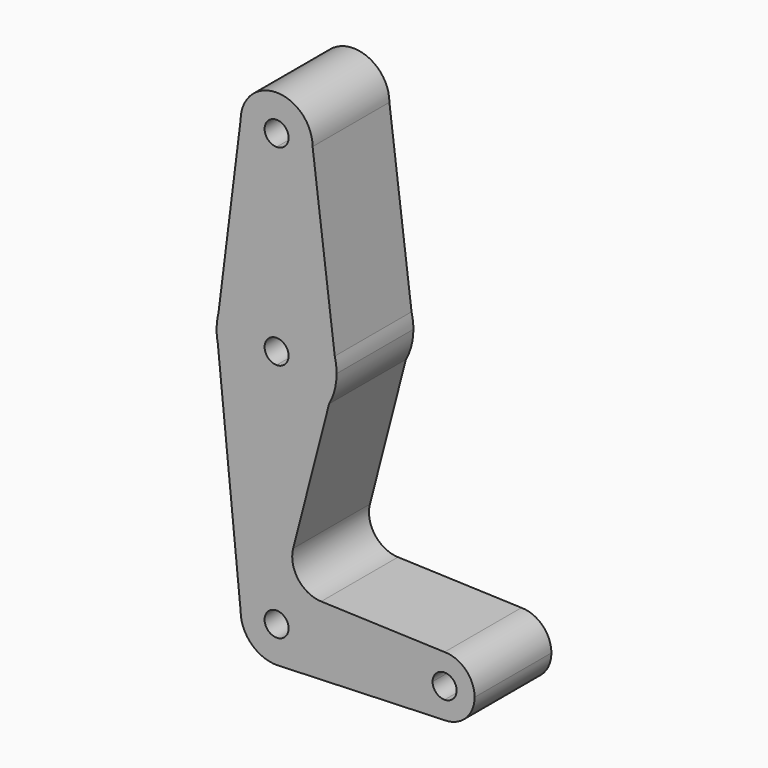
from build123d import *

# Parameters (mm, degrees)
F1_DEPTH = 25.4


with BuildPart() as f1:
    # F0 (on Front) → F1 (new body)
    with BuildSketch(Plane.XZ):
        with BuildLine():
            ThreePointArc((25.6770636201, 456.7115720676), (28.4668715293, 449.9763799768), (35.2020636201, 447.1865720676))
            ThreePointArc((35.2020636201, 447.1865720676), (41.9372557109, 449.9763799768), (44.7270636201, 456.7115720676))
            ThreePointArc((44.7270636201, 456.7115720676), (35.2020636201, 466.2365720676), (25.6770636201, 456.7115720676))
        make_face()
        with BuildLine():
            ThreePointArc((38.3770636201, 456.7115720676), (37.4471276504, 454.4665080374), (35.2020636201, 453.5365720676))
            ThreePointArc((35.2020636201, 453.5365720676), (32.9569995898, 458.9566360979), (38.3770636201, 456.7115720676))
        make_face(mode=Mode.SUBTRACT)
        with BuildLine():
            ThreePointArc((44.7270636201, 456.7115720676), (41.9372557109, 449.9763799768), (35.2020636201, 447.1865720676))
            Line((35.2020636201, 447.1865720676), (35.2020636201, 421.7865720676))
            ThreePointArc((35.2020636201, 421.7865720676), (44.9483708596, 418.4425385185), (50.5886020816, 409.8192643753))
            Line((50.5886020816, 409.8192643753), (44.7270636201, 456.7115720676))
        make_face()
        with BuildLine():
            Line((35.2020636201, 421.7865720676), (35.2020636201, 447.1865720676))
            ThreePointArc((35.2020636201, 447.1865720676), (28.4668715293, 449.9763799768), (25.6770636201, 456.7115720676))
            Line((25.6770636201, 456.7115720676), (19.8155251586, 409.8192643753))
            ThreePointArc((19.8155251586, 409.8192643753), (25.4557563805, 418.4425385185), (35.2020636201, 421.7865720676))
        make_face()
        with BuildLine():
            ThreePointArc((50.5886020816, 409.8192643753), (44.9483708596, 418.4425385185), (35.2020636201, 421.7865720676))
            Line((35.2020636201, 421.7865720676), (35.2020636201, 409.0865720676))
            ThreePointArc((35.2020636201, 409.0865720676), (37.4471276504, 408.1566360979), (38.3770636201, 405.9115720676))
            ThreePointArc((38.3770636201, 405.9115720676), (37.4471276504, 403.6665080374), (35.2020636201, 402.7365720676))
            Line((35.2020636201, 402.7365720676), (35.2020636201, 390.0365720676))
            ThreePointArc((35.2020636201, 390.0365720676), (43.2602030092, 392.2337793149), (49.0877405381, 398.2171844032))
            Line((49.0877405381, 398.2171844032), (51.0770636201, 405.9115720676))
            Line((51.0770636201, 405.9115720676), (50.5886020816, 409.8192643753))
        make_face()
        with BuildLine():
            Line((35.2020636201, 409.0865720676), (35.2020636201, 421.7865720676))
            ThreePointArc((35.2020636201, 421.7865720676), (25.4557563805, 418.4425385185), (19.8155251586, 409.8192643753))
            Line((19.8155251586, 409.8192643753), (19.3270636201, 405.9115720676))
            Line((19.3270636201, 405.9115720676), (19.6414200557, 402.7680077112))
            ThreePointArc((19.6414200557, 402.7680077112), (25.1494136998, 393.6249999428), (35.2020636201, 390.0365720676))
            Line((35.2020636201, 390.0365720676), (35.2020636201, 402.7365720676))
            ThreePointArc((35.2020636201, 402.7365720676), (32.0270636201, 405.9115720676), (35.2020636201, 409.0865720676))
        make_face()
        with BuildLine():
            ThreePointArc((51.0770636201, 405.9115720676), (50.9544749129, 407.8806234792), (50.5886020816, 409.8192643753))
            Line((50.5886020816, 409.8192643753), (51.0770636201, 405.9115720676))
        make_face()
        with BuildLine():
            Line((19.3270636201, 405.9115720676), (19.8155251586, 409.8192643753))
            ThreePointArc((19.8155251586, 409.8192643753), (19.4496523273, 407.8806234792), (19.3270636201, 405.9115720676))
        make_face()
        with BuildLine():
            ThreePointArc((49.0877405381, 398.2171844032), (50.571688633, 401.9378770663), (51.0770636201, 405.9115720676))
            Line((51.0770636201, 405.9115720676), (49.0877405381, 398.2171844032))
        make_face()
        with BuildLine():
            Line((19.6414200557, 402.7680077112), (19.3270636201, 405.9115720676))
            ThreePointArc((19.3270636201, 405.9115720676), (19.4058482255, 404.3319505282), (19.6414200557, 402.7680077112))
        make_face()
        with BuildLine():
            ThreePointArc((49.0877405381, 398.2171844032), (43.2602030092, 392.2337793149), (35.2020636201, 390.0365720676))
            Line((35.2020636201, 390.0365720676), (35.2020636201, 351.9365720676))
            ThreePointArc((35.2020636201, 351.9365720676), (41.9372557109, 349.1467641584), (44.7270636201, 342.4115720676))
            Line((44.7270636201, 342.4115720676), (71.7145636201, 342.4115720676))
            ThreePointArc((71.7145636201, 342.4115720676), (74.0394035444, 348.0242321433), (79.6520636201, 350.3490720676))
            Line((79.6520636201, 350.3490720676), (46.9953697124, 351.5153825643))
            ThreePointArc((46.9953697124, 351.5153825643), (40.9072802221, 354.7060160716), (39.5820163118, 361.4505435856))
            Line((39.5820163118, 361.4505435856), (49.0877405381, 398.2171844032))
        make_face()
        with BuildLine():
            Line((35.2020636201, 351.9365720676), (35.2020636201, 390.0365720676))
            ThreePointArc((35.2020636201, 390.0365720676), (25.1494136998, 393.6249999428), (19.6414200557, 402.7680077112))
            Line((19.6414200557, 402.7680077112), (25.6770636201, 342.4115720676))
            ThreePointArc((25.6770636201, 342.4115720676), (28.4668715293, 349.1467641584), (35.2020636201, 351.9365720676))
        make_face()
        with BuildLine():
            Line((35.2020636201, 345.5865720676), (35.2020636201, 351.9365720676))
            ThreePointArc((35.2020636201, 351.9365720676), (28.4668715293, 349.1467641584), (25.6770636201, 342.4115720676))
            ThreePointArc((25.6770636201, 342.4115720676), (28.5886292386, 335.5567846397), (35.5433335795, 332.8926876889))
            ThreePointArc((35.5433335795, 332.8926876889), (42.056851048, 335.7981376861), (44.7270636201, 342.4115720676))
            Line((44.7270636201, 342.4115720676), (38.3770636201, 342.4115720676))
            ThreePointArc((38.3770636201, 342.4115720676), (32.9569995898, 340.1665080374), (35.2020636201, 345.5865720676))
        make_face()
        with BuildLine():
            Line((71.7145636201, 342.4115720676), (44.7270636201, 342.4115720676))
            ThreePointArc((44.7270636201, 342.4115720676), (42.056851048, 335.7981376861), (35.5433335795, 332.8926876889))
            Line((35.5433335795, 332.8926876889), (79.6520636201, 334.4740720676))
            ThreePointArc((79.6520636201, 334.4740720676), (74.0394035444, 336.798911992), (71.7145636201, 342.4115720676))
        make_face()
        with BuildLine():
            ThreePointArc((79.6520636201, 350.3490720676), (74.0394035444, 348.0242321433), (71.7145636201, 342.4115720676))
            Line((71.7145636201, 342.4115720676), (76.4770636201, 342.4115720676))
            ThreePointArc((76.4770636201, 342.4115720676), (77.4069995898, 344.6566360979), (79.6520636201, 345.5865720676))
            Line((79.6520636201, 345.5865720676), (79.6520636201, 350.3490720676))
        make_face()
        with BuildLine():
            Line((76.4770636201, 342.4115720676), (71.7145636201, 342.4115720676))
            ThreePointArc((71.7145636201, 342.4115720676), (74.0394035444, 336.798911992), (79.6520636201, 334.4740720676))
            Line((79.6520636201, 334.4740720676), (79.6520636201, 339.2365720676))
            ThreePointArc((79.6520636201, 339.2365720676), (77.4069995898, 340.1665080374), (76.4770636201, 342.4115720676))
        make_face()
        with BuildLine():
            ThreePointArc((87.5895636201, 342.4115720676), (85.2647236958, 348.0242321433), (79.6520636201, 350.3490720676))
            Line((79.6520636201, 350.3490720676), (79.6520636201, 345.5865720676))
            ThreePointArc((79.6520636201, 345.5865720676), (81.8971276504, 344.6566360979), (82.8270636201, 342.4115720676))
            ThreePointArc((82.8270636201, 342.4115720676), (81.8971276504, 340.1665080374), (79.6520636201, 339.2365720676))
            Line((79.6520636201, 339.2365720676), (79.6520636201, 334.4740720676))
            ThreePointArc((79.6520636201, 334.4740720676), (85.2647236958, 336.798911992), (87.5895636201, 342.4115720676))
        make_face()
        with BuildLine():
            ThreePointArc((44.7270636201, 342.4115720676), (41.9372557109, 349.1467641584), (35.2020636201, 351.9365720676))
            Line((35.2020636201, 351.9365720676), (35.2020636201, 345.5865720676))
            ThreePointArc((35.2020636201, 345.5865720676), (37.4471276504, 344.6566360979), (38.3770636201, 342.4115720676))
            Line((38.3770636201, 342.4115720676), (44.7270636201, 342.4115720676))
        make_face()
    extrude(amount=F1_DEPTH)


solid = f1.part
